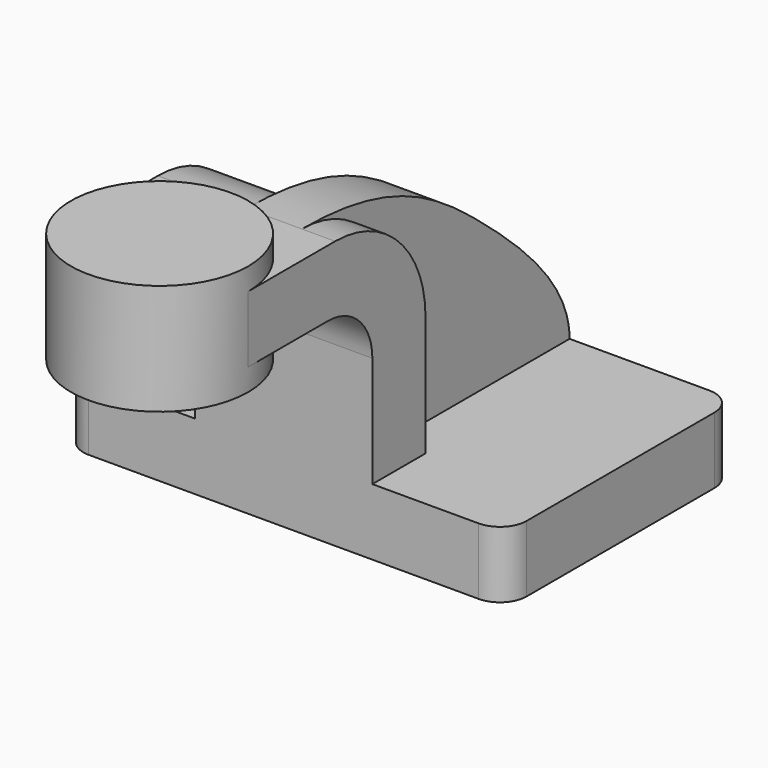
from build123d import *

# Parameters (mm, degrees)
F1_DEPTH = 9.525
F3_DEPTH = 25.4
F5_R     = 25.4
F6_DEPTH = 15.875
F8_DEPTH = 15.875


with BuildPart() as f1:
    # F0 (on Top) → F1 (new body, symmetric)
    with BuildSketch(Plane.XY):
        with BuildLine():
            ThreePointArc((63.5, 33.655), (61.2681536726, 39.0431536726), (55.88, 41.275))
            Line((55.88, 41.275), (-55.88, 41.275))
            ThreePointArc((-55.88, 41.275), (-61.2681536726, 39.0431536726), (-63.5, 33.655))
            Line((-63.5, 33.655), (-63.5, -33.655))
            ThreePointArc((-63.5, -33.655), (-61.2681536726, -39.0431536726), (-55.88, -41.275))
            Line((-55.88, -41.275), (55.88, -41.275))
            ThreePointArc((55.88, -41.275), (61.2681536726, -39.0431536726), (63.5, -33.655))
            Line((63.5, -33.655), (63.5, 33.655))
        make_face()
    extrude(amount=F1_DEPTH, both=True)

    # F2 (on Right) → F3 (join, symmetric)
    with BuildSketch(Plane.YZ):
        with BuildLine():
            Line((-41.275, 9.525), (-22.225, 9.525))
            Line((-22.225, 9.525), (-22.225, 43.815))
            ThreePointArc((-22.225, 43.815), (-31.7103468913, 66.7146531087), (-54.61, 76.2))
            Line((-54.61, 76.2), (-85.725, 76.2))
            Line((-85.725, 76.2), (-85.725, 57.15))
            Line((-85.725, 57.15), (-57.15, 57.15))
            ThreePointArc((-57.15, 57.15), (-45.9246798487, 52.5003201513), (-41.275, 41.275))
            Line((-41.275, 41.275), (-41.275, 9.525))
        make_face()
    extrude(amount=F3_DEPTH, both=True)

    # F5 (on mid) → F6 (join, symmetric)
    with BuildSketch(Plane.XY.offset(66.675)):
        with Locations((0, -85.725)):
            Circle(F5_R)
    extrude(amount=F6_DEPTH, both=True)

    # F7 (on Right) → F8 (join)
    with BuildSketch(Plane.YZ):
        with BuildLine():
            ThreePointArc((-54.61, 76.2), (-31.7103468913, 66.7146531087), (-22.225, 43.815))
            Line((-22.225, 43.815), (-22.225, 9.525))
            Line((-22.225, 9.525), (41.275, 9.525))
            add(Edge.make_bspline(
                [(-54.61, 76.2), (-22.4902851436, 76.2), (7.474900406, 55.7835251702), (41.275, 23.4287642155), (41.275, 9.525)],
                knots=[0, 0, 0, 0, 0.4371907779, 0.8096505074, 0.8096505074, 0.8096505074, 0.8096505074], degree=3))
        make_face()
    extrude(amount=F8_DEPTH)


solid = f1.part
